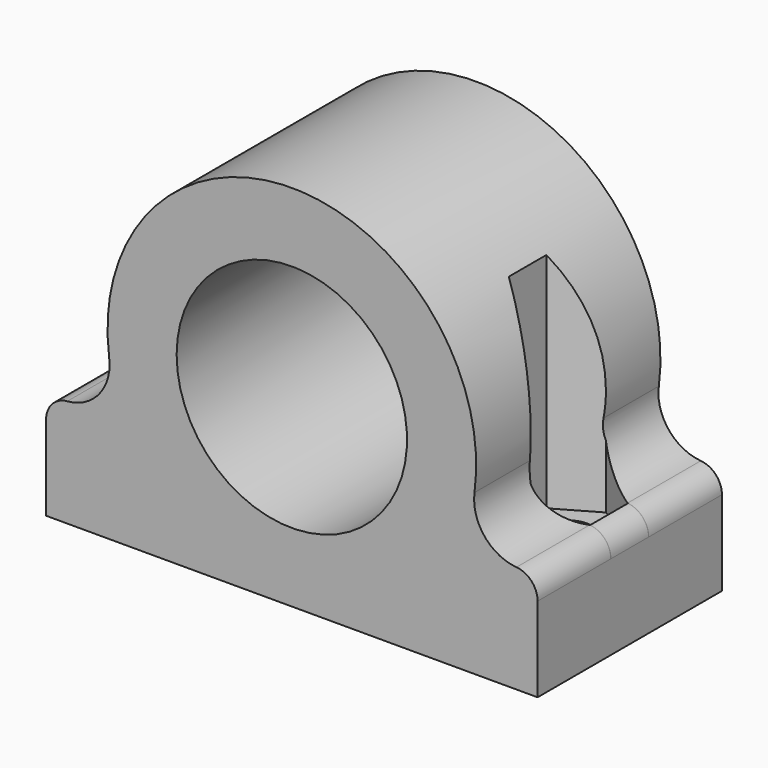
from build123d import *

# Parameters (mm, degrees)
SKETCH_W          = 32
SKETCH_H          = 15
PAD_DEPTH         = 24
SKETCH001_W       = 7.5
SKETCH001_H       = 15
SKETCH002_R       = 1.525
HOLE_DEPTH        = 25
POCKET_DEPTH      = 7.501
POCKET_DEPTH_BACK = -7.501
POCKET001_DEPTH   = 19
FILLET_R          = 1.5


with BuildPart() as part:
    # Sketch → Pad (new body)
    with BuildSketch(Plane.XY):
        Rectangle(SKETCH_W, SKETCH_H)
    extrude(amount=PAD_DEPTH)

    # Sketch001 → Groove (revolve, cut)
    with BuildSketch(Plane.XY.offset(12)):
        with Locations((-3.75, 0)):
            Rectangle(SKETCH001_W, SKETCH001_H)
    revolve(axis=Axis((0, 0, 12), (0, 1, 0)), mode=Mode.SUBTRACT)

    # Sketch002 → Hole (cut)
    with BuildSketch(Plane.XY.offset(24)):
        with Locations((12, 0)):
            Circle(SKETCH002_R)
        with Locations((-12, 0)):
            Circle(SKETCH002_R)
    extrude(amount=-HOLE_DEPTH, mode=Mode.SUBTRACT)

    # Sketch004 → Pocket (cut, two sides)
    with BuildSketch(Plane.XZ) as pocket_sk:
        with BuildLine():
            Line((-25, 7), (-14.866069, 7))
            ThreePointArc((-14.866069, 7), (-12.607751, 8.025158), (-11.892855, 10.4))
            ThreePointArc((11.892855, 10.4), (0, 24), (-11.892855, 10.4))
            ThreePointArc((11.892855, 10.4), (12.607751, 8.025158), (14.866069, 7))
            Line((14.866069, 7), (25, 7))
            Line((25, 7), (25, 37.147858))
            Line((25, 37.147858), (-25, 37.147858))
            Line((-25, 7), (-25, 37.147858))
        make_face()
    extrude(amount=-POCKET_DEPTH, mode=Mode.SUBTRACT)
    extrude(pocket_sk.sketch, amount=-POCKET_DEPTH_BACK, mode=Mode.SUBTRACT)

    # Sketch003 → Pocket001 (cut)
    with BuildSketch(Plane.XY.offset(24)):
        Polygon((14.65, 1.529978), (12, 3.059956), (9.35, 1.529978), (9.35, -1.529978), (12, -3.059956), (14.65, -1.529978), align=None)
        Polygon((-9.35, 1.529978), (-12, 3.059956), (-14.65, 1.529978), (-14.65, -1.529978), (-12, -3.059956), (-9.35, -1.529978), align=None)
    extrude(amount=-POCKET001_DEPTH, mode=Mode.SUBTRACT)

    # Fillet
    fillet_edges = [part.edges().sort_by_distance(p)[0] for p in [
        (16, 0, 7),
        (-16, 0, 7),
    ]]
    fillet(fillet_edges, radius=FILLET_R)


solid = part.part
